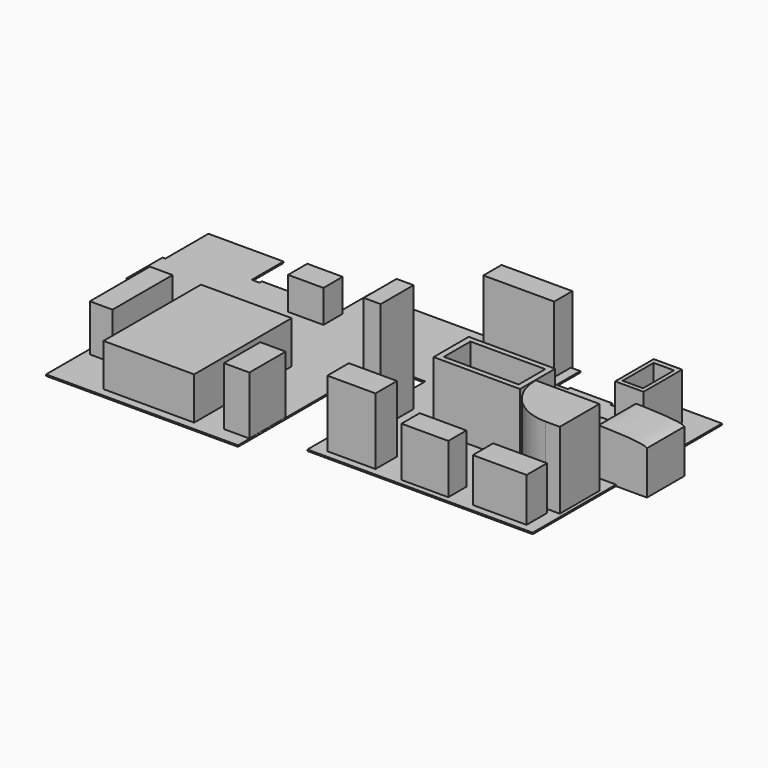
from build123d import *

# Parameters (mm, degrees)
F1_DEPTH  = 25.4
F2_W      = 1625.6
F2_H      = 2184.4
F3_DEPTH  = 762
F4_W      = 1270
F4_H      = 406.4
F5_DEPTH  = 1219.2
F6_W      = 965.2
F6_H      = 457.2
F7_DEPTH  = 812.8
F8_W      = 254
F8_H      = 889
F9_DEPTH  = 1397
F10_W     = 863.6
F10_H     = 482.6
F11_DEPTH = 1219.2
F12_W     = 635
F12_H     = 431.8
F13_DEPTH = 609.6
F14_W     = 304.8
F14_H     = 736.6
F15_DEPTH = 1981.2
F16_W     = 457.2
F16_H     = 812.8
F17_DEPTH = 1066.8
F18_W     = 406.4
F18_H     = 1346.2
F19_DEPTH = 863.6
F20_W     = 838.2
F20_H     = 406.4
F21_DEPTH = 914.4
F22_W     = 1549.4
F22_H     = 787.4
F22_W_2   = 1341.7191505432
F22_H_2   = 595.1457023621
F23_DEPTH = 1193.8
F24_W     = 508
F24_H     = 863.6
F24_W_2   = 366.2426
F24_H_2   = 693.7502
F25_DEPTH = 863.6
F26_W     = 1676.4
F26_H     = 838.2
F27_DEPTH = 914.4
F29_DEPTH = 838.2


with BuildPart() as f1:
    # F0 (on Top) → F1 (new body)
    with BuildSketch(Plane.XY):
        Polygon((0, 2717.8), (0, 0), (3441.7, 0), (3441.7, 3048), (3441.7, 3149.6), (3543.3, 3149.6), (4178.3, 3149.6), (4279.9, 3149.6), (4279.9, 3048), (4279.9, 508), (8318.5, 508), (8318.5, 4749.8), (6946.9, 4749.8), (6946.9, 4216.4), (6845.3, 4216.4), (6744.8768615723, 4216.4), (6744.8768615723, 4267.2), (5984.6692085266, 4267.2), (5984.6692085266, 4216.4), (5880.1, 4216.4), (5778.5, 4216.4), (5778.5, 4318), (5778.5, 4749.8), (4279.9, 4749.8), (4279.9, 4038.6), (4178.3, 4038.6), (4178.3, 4749.8), (2019.3, 4749.8), (2019.3, 4140.2), (2019.3, 4038.6), (1917.7, 4038.6), (1485.9, 4038.6), (1397, 4038.6), (1295.4, 4038.6), (1257.3, 4038.6), (1257.3, 4089.4), (596.9, 4089.4), (596.9, 4038.6), (558.8, 4038.6), (457.2, 4038.6), (457.2, 4749.8), (-889, 4749.8), (-889, 4495.8), (-889, 3784.6), (-939.8, 3784.6), (-939.8, 2971.8), (-889, 2971.8), (-889, 2819.4), (-784.2075228691, 2819.4), (-784.2075228691, 2780.5261611938), (-181.2450289726, 2782.6342582703), (-181.2450289726, 2819.4), (-101.6, 2819.4), (0, 2819.4), align=None)
    extrude(amount=F1_DEPTH)


with BuildPart() as f3:
    # F2 (on face) → F3 (new body)
    with BuildSketch(Plane.XY.offset(25.4)):
        with Locations((1720.85, 1244.6)):
            Rectangle(F2_W, F2_H)
    extrude(amount=F3_DEPTH)


with BuildPart() as f5:
    # F4 (on Top) → F5 (new body)
    with BuildSketch(Plane.XY):
        with Locations((4974.3144416809, 4580.2027160645)):
            Rectangle(F4_W, F4_H)
    extrude(amount=F5_DEPTH)


with BuildPart() as f7:
    # F6 (on Top) → F7 (new body)
    with BuildSketch(Plane.XY):
        with Locations((7621.7263008118, 868.344579792)):
            Rectangle(F6_W, F6_H)
    extrude(amount=F7_DEPTH)


with BuildPart() as f9:
    # F8 (on Top) → F9 (new body)
    with BuildSketch(Plane.XY):
        with Locations((8128.5707015991, 1638.6728591919)):
            Rectangle(F8_W, F8_H)
        with BuildLine():
            ThreePointArc((7112.5707015991, 2083.1728591919), (7372.9527731243, 1454.5549307171), (8001.5707015991, 1194.1728591919))
            Line((8001.5707015991, 1194.1728591919), (8001.5707015991, 2083.1728591919))
            Line((8001.5707015991, 2083.1728591919), (7112.5707015991, 2083.1728591919))
        make_face()
    extrude(amount=F9_DEPTH)


with BuildPart() as f11:
    # F10 (on Top) → F11 (new body)
    with BuildSketch(Plane.XY):
        with Locations((4963.0595367432, 881.044579792)):
            Rectangle(F10_W, F10_H)
    extrude(amount=F11_DEPTH)


with BuildPart() as f13:
    # F12 (on Top) → F13 (new body)
    with BuildSketch(Plane.XY):
        with Locations((1778.290880394, 3812.5958999634)):
            Rectangle(F12_W, F12_H)
    extrude(amount=F13_DEPTH)


with BuildPart() as f15:
    # F14 (on Top) → F15 (new body)
    with BuildSketch(Plane.XY):
        with Locations((4522.6001907349, 2024.4965942383)):
            Rectangle(F14_W, F14_H)
    extrude(amount=F15_DEPTH)


with BuildPart() as f17:
    # F16 (on Top) → F17 (new body)
    with BuildSketch(Plane.XY):
        with Locations((3209.51340065, 666.2584294319)):
            Rectangle(F16_W, F16_H)
    extrude(amount=F17_DEPTH)


with BuildPart() as f19:
    # F18 (on Top) → F19 (new body)
    with BuildSketch(Plane.XY):
        with Locations((303.319973278, 1528.4556203842)):
            Rectangle(F18_W, F18_H)
    extrude(amount=F19_DEPTH)


with BuildPart() as f21:
    # F20 (on Top) → F21 (new body)
    with BuildSketch(Plane.XY):
        with Locations((6305.628968811, 812.1428663254)):
            Rectangle(F20_W, F20_H)
    extrude(amount=F21_DEPTH)


with BuildPart() as f23:
    # F22 (on Top) → F23 (new body)
    with BuildSketch(Plane.XY):
        with Locations((6086.2658760071, 2440.0500022888)):
            Rectangle(F22_W, F22_H)
        with Locations((6090.4633998871, 2439.5515918732)):
            Rectangle(F22_W_2, F22_H_2, mode=Mode.SUBTRACT)
    extrude(amount=F23_DEPTH)


with BuildPart() as f25:
    # F24 (on Top) → F25 (new body)
    with BuildSketch(Plane.XY):
        with Locations((7614.0968284607, 3987.4273460388)):
            Rectangle(F24_W, F24_H)
        with Locations((7613.5438916504, 3982.0004986359)):
            Rectangle(F24_W_2, F24_H_2, mode=Mode.SUBTRACT)
    extrude(amount=F25_DEPTH)


with BuildPart() as f27:
    # F26 (on Top) → F27 (new body)
    with BuildSketch(Plane.XY):
        with Locations((8035.7133743286, 2794.7656646729)):
            Rectangle(F26_W, F26_H)
    extrude(amount=F27_DEPTH)

    # F28 (on face) → F29 (cut, through all)
    with BuildSketch(Plane(origin=(0, 3213.8656646729, 0), x_dir=(-1, 0, 0), z_dir=(0, 1, 0))):
        with BuildLine():
            Line((-8873.9133743286, 914.4), (-8873.9133743286, 779.9721360207))
            add(Edge.make_bspline(
                [(-8873.9133743286, 779.9721360207), (-8805.7552267889, 845.5248363303), (-8075.7860491427, 854.3843914375), (-7950.8738247225, 869.5022571575), (-7776.6322981899, 363.3350625902), (-7644.4897854288, 415.7580891444), (-7240.0854441812, 501.7241843801), (-7209.5195755059, 208.5033285965), (-7197.5133743286, 95.6071093678)],
                knots=[0, 0, 0, 0, 0.2565393304, 0.3702933341, 0.5652174897, 0.6630583267, 0.8306296411, 1, 1, 1, 1], degree=3))
            Line((-7197.5133743286, 95.6071093678), (-7197.5133743286, 914.4))
            Line((-7197.5133743286, 914.4), (-8873.9133743286, 914.4))
        make_face()
    extrude(amount=-F29_DEPTH, mode=Mode.SUBTRACT)


solid = Compound([f1.part, f3.part, f5.part, f7.part, f9.part, f11.part, f13.part, f15.part, f17.part, f19.part, f21.part, f23.part, f25.part, f27.part])
